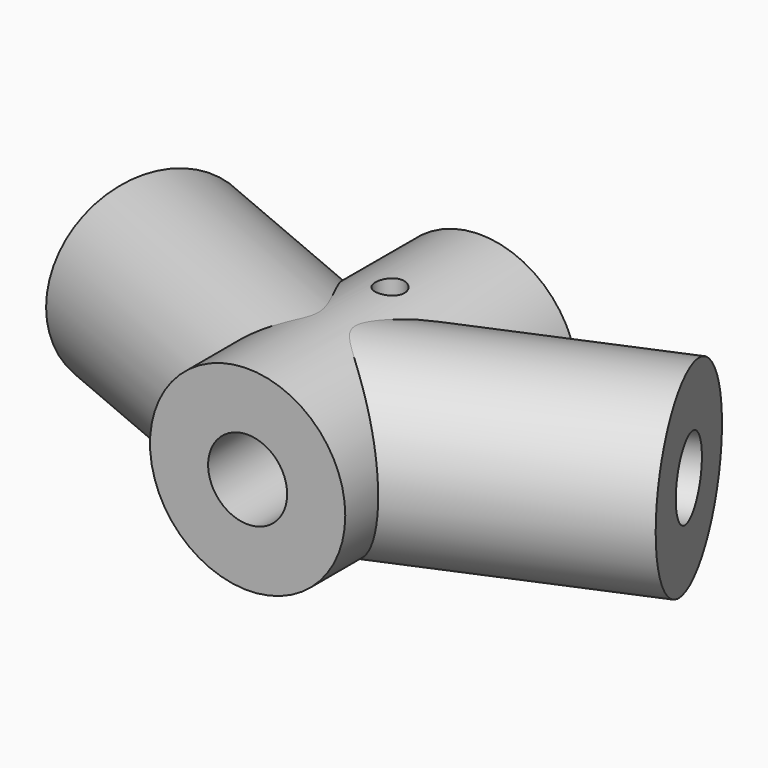
from build123d import *

# Parameters (mm, degrees)
F0_R     = 8.4
F0_R_2   = 3.4
F1_DEPTH = 12.5
F4_R     = 8.25
F4_R_2   = 3.25
F8_D     = 2.5
F8_DEPTH = 101
F8_TIP   = 0.7510757738


with BuildPart() as f1:
    # F0 (on Front) → F1 (new body, symmetric)
    with BuildSketch(Plane.XZ):
        Circle(F0_R)
        Circle(F0_R_2, mode=Mode.SUBTRACT)
    extrude(amount=F1_DEPTH, both=True)

    # F4 (on face) → F5 (join, up to the next surface of F1)
    with BuildSketch(Plane(origin=(-21.7175651559, 9.2185594781, 0), x_dir=(-0.3907311285, -0.9205048535, 0), z_dir=(-0.9205048535, 0.3907311285, 0))):
        with Locations((3.2821414793, 0)):
            Circle(F4_R)
        with Locations((3.2821414793, 0)):
            Circle(F4_R_2, mode=Mode.SUBTRACT)
    extrude(until=Until.NEXT, dir=(0.9205048535, -0.3907311285, 0))

    # F6: F1 across plane


with BuildPart() as f1_1:
    add(f1.part)
    add(f1.part.mirror(Plane.YZ))

    # F8 (one way)
    with BuildSketch(Plane(origin=(0, 0, 0), x_dir=(1, 0, 0), z_dir=(0, 0, -1))):
        with Locations((0, -2.8046087828)):
            Circle(F8_D / 2)
    extrude(amount=-F8_DEPTH, mode=Mode.SUBTRACT)
    with Locations(Plane(origin=(0, 0, 0), x_dir=(1, 0, 0), z_dir=(0, 0, -1))):
        with Locations((0, -2.8046087828)):
            with Locations((0, 0, -(F8_DEPTH + F8_TIP / 2))):  # 118° drill point
                Cone(0, F8_D / 2, F8_TIP, mode=Mode.SUBTRACT)


solid = f1_1.part
